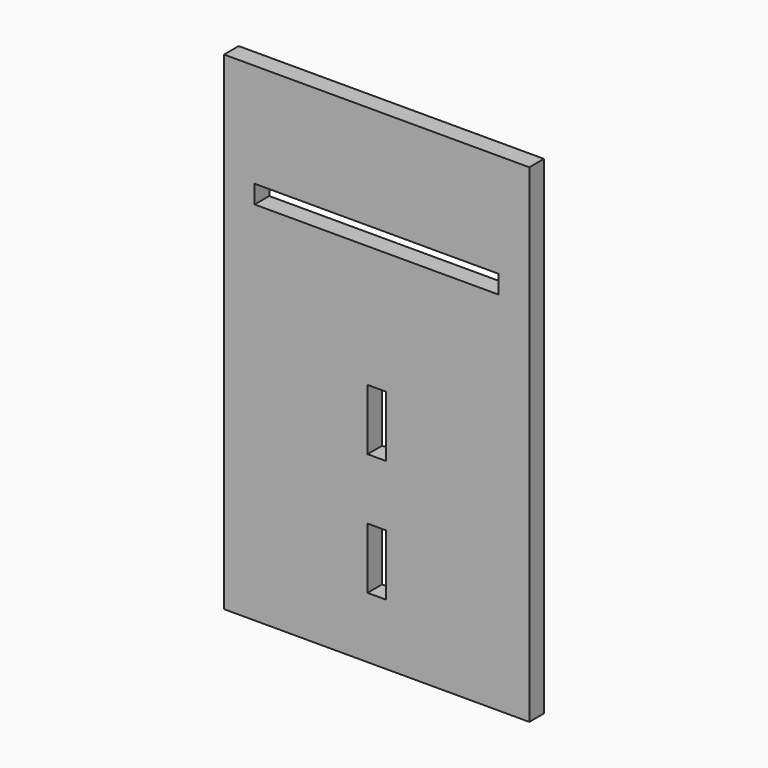
from build123d import *

# Parameters (mm, degrees)
F1_W     = 50
F1_H     = 80
F1_W_2   = 3
F1_H_2   = 10
F1_W_3   = 40
F1_H_3   = 3
F0_DEPTH = 3


with BuildPart() as f0:
    # F1 (on Front) → F0 (new body)
    with BuildSketch(Plane.XZ):
        Rectangle(F1_W, F1_H)
        with Locations((0, -25)):
            Rectangle(F1_W_2, F1_H_2, mode=Mode.SUBTRACT)
        with Locations((0, -5)):
            Rectangle(F1_W_2, F1_H_2, mode=Mode.SUBTRACT)
        with Locations((0, 21.5)):
            Rectangle(F1_W_3, F1_H_3, mode=Mode.SUBTRACT)
    extrude(amount=F0_DEPTH)


solid = f0.part
